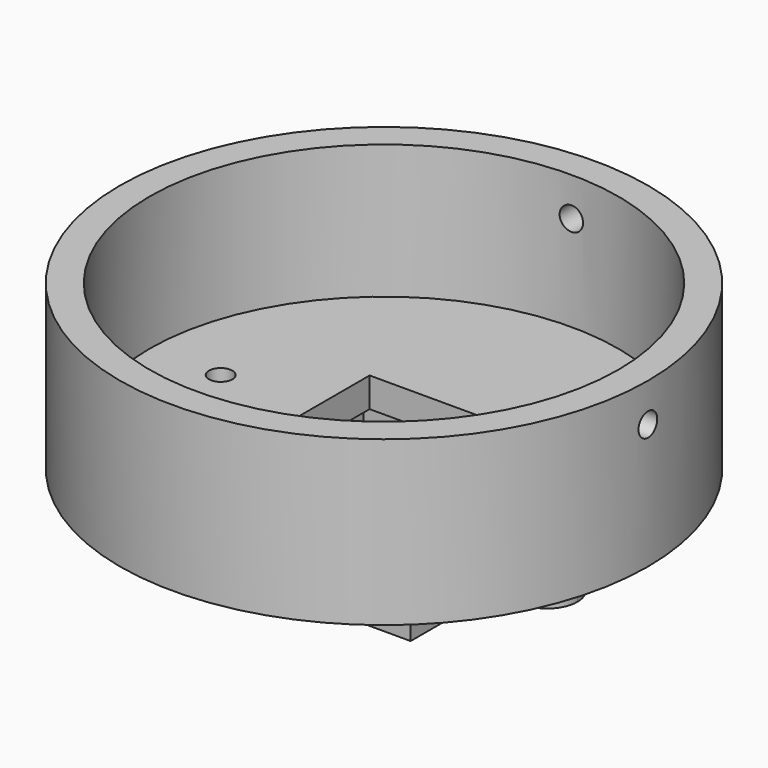
from build123d import *

# Parameters (mm, degrees)
CYLINDER001_R           = 1.8
CYLINDER001_DEPTH       = 3.23
THICKNESS002_T          = -1.1
CYLINDER003_R           = 1.8
CYLINDER003_DEPTH       = 3.23
THICKNESS003_T          = -1.1
CYLINDER006_R           = 0.7
CYLINDER006_DEPTH       = 3
CYLINDER006_ROLL_ANGLE  = -90
CYLINDER005_R           = 0.7
CYLINDER005_DEPTH       = 3
CYLINDER005_PITCH_ANGLE = 90
CYLINDER004_R           = 0.7
CYLINDER004_DEPTH       = 10
CYLINDER002_R           = 0.7
CYLINDER002_DEPTH       = 10
BOX001_W                = 8.6
BOX001_H                = 8.6
BOX001_DEPTH            = 1.77
CYLINDER_R              = 14
CYLINDER_DEPTH          = 8
THICKNESS_T             = 1.77
BOX_W                   = 15.9
BOX_H                   = 15.9
BOX_DEPTH               = 3.23
THICKNESS001_T          = -1.771


with BuildPart() as thickness002:
    # Cylinder001 → Cylinder001 (new body)
    with BuildSketch(Plane.XY):
        Circle(CYLINDER001_R)
    extrude(amount=CYLINDER001_DEPTH)

    # Thickness002
    thickness002_openings = [thickness002.faces().sort_by_distance(p)[0] for p in [
        (0, 0, 3.23),
        (0, 0, 0),
    ]]
    offset(amount=THICKNESS002_T, openings=thickness002_openings)


with BuildPart() as thickness002_1:
    # Thickness002 placement: moved
    add(thickness002.part.moved(Location((9.75, 0, 0))))


with BuildPart() as thickness003:
    # Cylinder003 → Cylinder003 (new body)
    with BuildSketch(Plane.XY):
        Circle(CYLINDER003_R)
    extrude(amount=CYLINDER003_DEPTH)

    # Thickness003
    thickness003_openings = [thickness003.faces().sort_by_distance(p)[0] for p in [
        (0, 0, 3.23),
        (0, 0, 0),
    ]]
    offset(amount=THICKNESS003_T, openings=thickness003_openings)


with BuildPart() as thickness003_1:
    # Thickness003 placement: moved
    add(thickness003.part.moved(Location((-9.75, 0, 0))))


with BuildPart() as cylinder006:
    # Cylinder006 → Cylinder006 (new body)
    with BuildSketch(Plane.XY):
        Circle(CYLINDER006_R)
    extrude(amount=CYLINDER006_DEPTH)


with BuildPart() as cylinder006_1:
    # Cylinder006 roll: moved
    add(cylinder006.part.rotate(Axis((0, 0, 0), (1, 0, 0)), CYLINDER006_ROLL_ANGLE))


with BuildPart() as cylinder006_2:
    # Cylinder006 placement: moved
    add(cylinder006_1.part.moved(Location((0, 13, 10.7))))


with BuildPart() as cylinder005:
    # Cylinder005 → Cylinder005 (new body)
    with BuildSketch(Plane.XY):
        Circle(CYLINDER005_R)
    extrude(amount=CYLINDER005_DEPTH)


with BuildPart() as cylinder005_1:
    # Cylinder005 pitch: moved
    add(cylinder005.part.rotate(Axis((0, 0, 0), (0, 1, 0)), CYLINDER005_PITCH_ANGLE))


with BuildPart() as cylinder005_2:
    # Cylinder005 placement: moved
    add(cylinder005_1.part.moved(Location((13, 0, 10.7))))


with BuildPart() as cylinder004:
    # Cylinder004 → Cylinder004 (new body)
    with BuildSketch(Plane(origin=(-9.75, 0, 0), x_dir=(1, 0, 0), z_dir=(0, 0, 1))):
        Circle(CYLINDER004_R)
    extrude(amount=CYLINDER004_DEPTH)


with BuildPart() as cylinder002:
    # Cylinder002 → Cylinder002 (new body)
    with BuildSketch(Plane(origin=(9.75, 0, 0), x_dir=(1, 0, 0), z_dir=(0, 0, 1))):
        Circle(CYLINDER002_R)
    extrude(amount=CYLINDER002_DEPTH)


with BuildPart() as cube001:
    # Box001 → Box001 (new body)
    with BuildSketch(Plane(origin=(-4.3, -4.3, 3.23), x_dir=(1, 0, 0), z_dir=(0, 0, 1))):
        with Locations((4.3, 4.3)):
            Rectangle(BOX001_W, BOX001_H)
    extrude(amount=BOX001_DEPTH)


with BuildPart() as cut004:
    # Cylinder → Cylinder (new body)
    with BuildSketch(Plane.XY.offset(5)):
        Circle(CYLINDER_R)
    extrude(amount=CYLINDER_DEPTH)

    # Thickness
    thickness_openings = [cut004.faces().sort_by_distance(p)[0] for p in [
        (0, 0, 13),
    ]]
    offset(amount=THICKNESS_T, openings=thickness_openings, kind=Kind.INTERSECTION)

    # Cut: cut Cube001
    add(cube001.part, mode=Mode.SUBTRACT)

    # Cut001: cut Cylinder002
    add(cylinder002.part, mode=Mode.SUBTRACT)

    # Cut002: cut Cylinder004
    add(cylinder004.part, mode=Mode.SUBTRACT)

    # Cut003: cut Cylinder005
    add(cylinder005_2.part, mode=Mode.SUBTRACT)

    # Cut004: cut Cylinder006
    add(cylinder006_2.part, mode=Mode.SUBTRACT)


with BuildPart() as fusion:
    # Box → Box (new body)
    with BuildSketch(Plane(origin=(-7.95, -7.95, 0), x_dir=(1, 0, 0), z_dir=(0, 0, 1))):
        with Locations((7.95, 7.95)):
            Rectangle(BOX_W, BOX_H)
    extrude(amount=BOX_DEPTH)

    # Thickness001
    thickness001_openings = [fusion.faces().sort_by_distance(p)[0] for p in [
        (0, 0, 3.23),
        (0, 0, 0),
    ]]
    offset(amount=THICKNESS001_T, openings=thickness001_openings, kind=Kind.INTERSECTION)

    # Fusion: union Thickness002, Thickness003, Cut004
    add(thickness002_1.part)
    add(thickness003_1.part)
    add(cut004.part)


solid = fusion.part
